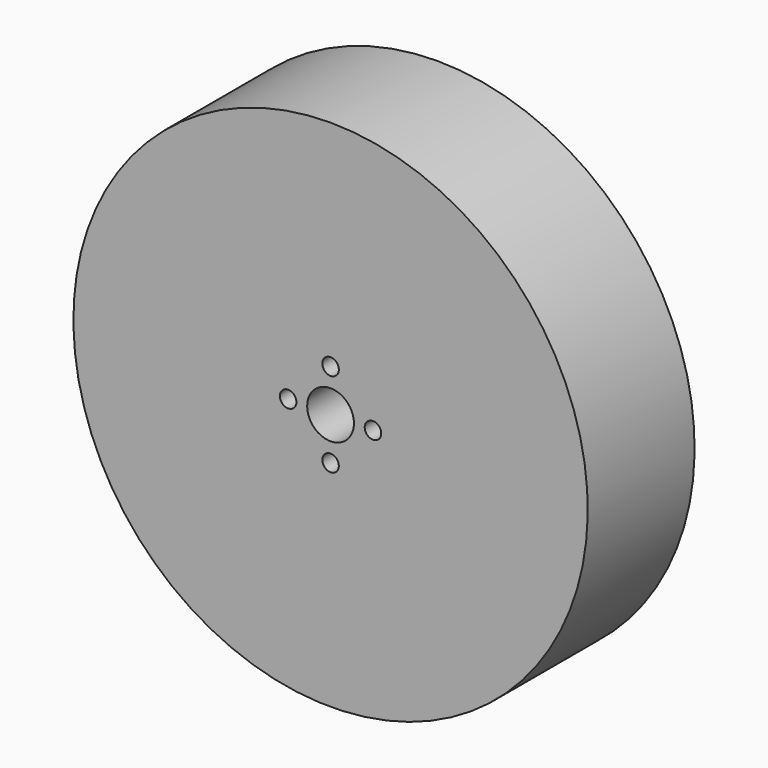
from build123d import *

# Parameters (mm, degrees)
SKETCH001_R        = 1.236716
POCKET_DEPTH       = 241.432705
POLARPATTERN_COUNT = 4
FILLET_R           = 8


with BuildPart() as part:
    # Sketch → Revolution (revolve)
    with BuildSketch(Plane.YZ):
        Polygon((6.930658, 38.5), (26.930658, 38.5), (26.930658, 33.5), (14.930658, 33.5), (14.930658, 3.5), (6.930658, 3.5), align=None)
    revolve(axis=Axis((0, 0, 0), (0, 1, 0)))

    # Sketch001 (on Face6 of Revolution) → Pocket (cut, through all)
    with BuildSketch(Plane(origin=(0, 6.930658, 0), x_dir=(0, 0, -1), z_dir=(0, -1, 0))):
        with Locations((0, 6.35)):
            Circle(SKETCH001_R)
    pocket = extrude(amount=-POCKET_DEPTH, mode=Mode.SUBTRACT)

    # PolarPattern: Pocket ×4 about axis
    polarpattern_axis = Axis((0, 6.930658, 0), (0, -1, 0))
    for i in range(1, POLARPATTERN_COUNT):
        add(pocket.rotate(polarpattern_axis, i * 360 / POLARPATTERN_COUNT), mode=Mode.SUBTRACT)

    # Fillet
    fillet_edges = [part.edges().sort_by_distance(p)[0] for p in [
        (0, 14.930658, -33.5),
    ]]
    fillet(fillet_edges, radius=FILLET_R)


solid = part.part
